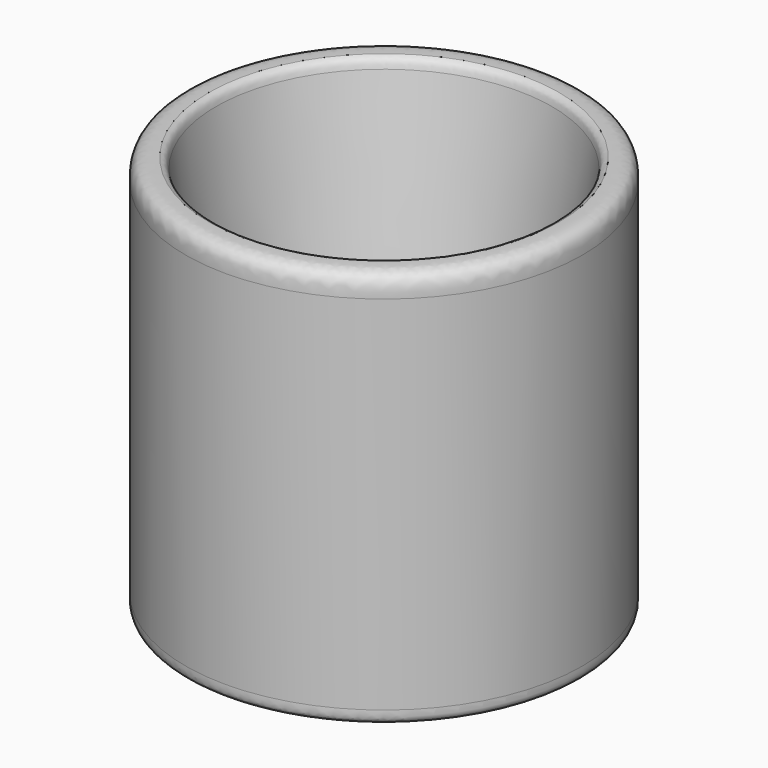
from build123d import *

# Parameters (mm, degrees)
F2_R     = 4.7469508404
F3_DEPTH = 9.525


with BuildPart() as f1:
    # F0 (on Front) → F1 (revolve)
    with BuildSketch(Plane.XZ):
        with BuildLine():
            Line((0, 0.9812490329), (0, 0))
            Line((0, 0), (1.6256, 0))
            Line((1.6256, 0), (1.6256, -11.1125))
            Line((1.6256, -11.1125), (30.7023078203, -11.1125))
            add(Edge.make_bspline(
                [(30.7023078203, -11.1125), (30.975852623, -11.017721514), (31.4389798048, -10.756400634), (31.7986107057, -9.9843307947), (31.7579196289, -9.2882845492), (31.75, -8.9282086119)],
                knots=[0, 0, 0, 0, 0.3174594219, 0.6335304223, 1, 1, 1, 1], degree=3))
            Line((31.75, -8.9282086119), (31.75, 48.9360690117))
            add(Edge.make_bspline(
                [(31.75, 48.9360690117), (31.7690109769, 49.8770929634), (31.6965917292, 50.8710171888), (30.9631042597, 52.1404272499), (29.7465902322, 52.4777620687), (28.0142854899, 52.3875)],
                knots=[0, 0, 0, 0, 0.3377299292, 0.586648381, 1, 1, 1, 1], degree=3))
            add(Edge.make_bspline(
                [(26.8668010831, 50.795905292), (26.8898471956, 51.0624120291), (27.0014352562, 51.5605867069), (27.3108313644, 52.0939557348), (27.8105565728, 52.3295162182), (28.0142854899, 52.3875)],
                knots=[0, 0, 0, 0, 0.3503710232, 0.6602361207, 1, 1, 1, 1], degree=3))
            Line((26.8668010831, 50.795905292), (21.5729530901, 18.4437490329))
            add(Edge.make_bspline(
                [(21.5729530901, 18.4437490329), (21.4991443202, 18.1161719718), (21.3483020233, 17.4467057765), (20.3362117179, 16.8851277771), (19.3413363836, 16.5933430901), (17.8793223703, 16.3738850883), (17.5645418022, 15.3518021904), (17.4014624208, 14.8222884163)],
                knots=[0, 0, 0, 0, 0.1816311799, 0.3711979544, 0.5628036991, 0.7735003063, 1, 1, 1, 1], degree=3))
            Line((17.4014624208, 14.8222884163), (14.0951965004, -5.9567838907))
            add(Edge.make_bspline(
                [(11.9167603552, -7.4151717126), (12.2292079791, -7.3365245376), (12.9263437553, -7.3725729241), (13.8308093416, -6.8643295221), (13.9993532378, -6.2139360125), (14.0951965004, -5.9567838907)],
                knots=[0, 0, 0, 0, 0.3424595324, 0.676447942, 1, 1, 1, 1], degree=3))
            Line((11.9167603552, -7.4151717126), (8.0561200157, -7.4151717126))
            add(Edge.make_bspline(
                [(8.0561200157, -7.4151717126), (7.3718139471, -7.4351340913), (6.9999702595, -7.1287769193), (5.1659517697, -6.1336385829), (5.7704470046, 2.913095458), (5.702091381, 3.7524529994)],
                knots=[0, 0, 0, 0, 0.1950466471, 0.4371978025, 1, 1, 1, 1], degree=3))
            Line((5.702091381, 3.7524529994), (5.5778109236, 18.4437490329))
            Line((5.5778109236, 18.4437490329), (4.3434, 18.4437490329))
            Line((4.3434, 18.4437490329), (4.3434, 0.9812490329))
            Line((4.3434, 0.9812490329), (0, 0.9812490329))
        make_face()
    revolve(axis=Axis((0, 0, 0.4906245165), (0, 0, -1)))


with BuildPart() as f3:
    # F2 (on face) → F3 (new body)
    with BuildSketch(Plane.XY.offset(0.9812490329)):
        Circle(F2_R)
    extrude(amount=F3_DEPTH)


with BuildPart() as f1_1:
    # F5: moved
    add(f1.part.moved(Location((0, 0, 11.113))))


solid = f1_1.part
